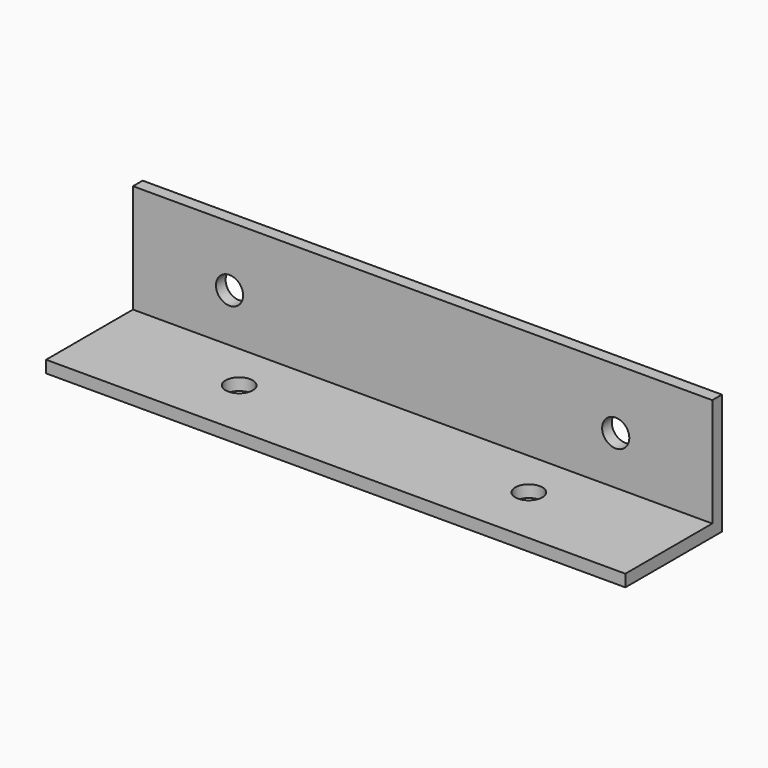
from build123d import *

# Parameters (mm, degrees)
F0_W     = 76.2
F0_H     = 15.875
F1_DEPTH = 7.9375
F2_W     = 76.2
F2_H     = 14.2875
F3_DEPTH = 14.2875
F4_R     = 1.7859375
F5_DEPTH = 12.7
F6_R     = 1.7859375
F7_DEPTH = 12.7


with BuildPart() as f1:
    # F0 (on Front) → F1 (new body, symmetric)
    with BuildSketch(Plane.XZ):
        Rectangle(F0_W, F0_H)
    extrude(amount=F1_DEPTH, both=True)

    # F2 (on face) → F3 (cut)
    with BuildSketch(Plane.XZ.offset(7.9375)):
        with Locations((0, 0.79375)):
            Rectangle(F2_W, F2_H)
    extrude(amount=-F3_DEPTH, mode=Mode.SUBTRACT)

    # F4 (on face) → F5 (cut, symmetric)
    with BuildSketch(Plane.XY.offset(-6.35)):
        with Locations((-19.05, 0)):
            Circle(F4_R)
        with Locations((19.05, 0)):
            Circle(F4_R)
    extrude(amount=F5_DEPTH, both=True, mode=Mode.SUBTRACT)

    # F6 (on face) → F7 (cut, symmetric)
    with BuildSketch(Plane.XZ.offset(-6.35)):
        with Locations((-25.4, 0)):
            Circle(F6_R)
        with Locations((25.4, 0)):
            Circle(F6_R)
    extrude(amount=F7_DEPTH, both=True, mode=Mode.SUBTRACT)


solid = f1.part
